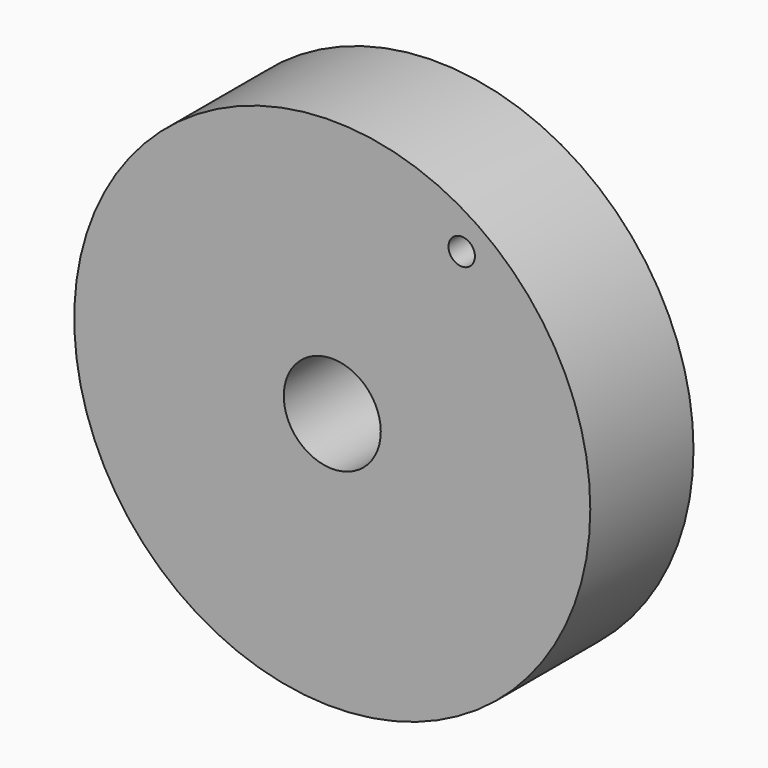
from build123d import *

# Parameters (mm, degrees)
F0_R     = 12.7
F0_R_2   = 2.3876
F0_R_3   = 0.649983
F1_DEPTH = 3.175


with BuildPart() as f1:
    # F0 (on Front) → F1 (new body, symmetric)
    with BuildSketch(Plane.XZ):
        Circle(F0_R)
        Circle(F0_R_2, mode=Mode.SUBTRACT)
        with Locations((6.370127, 9.10069)):
            Circle(F0_R_3, mode=Mode.SUBTRACT)
    extrude(amount=F1_DEPTH, both=True)


solid = f1.part
